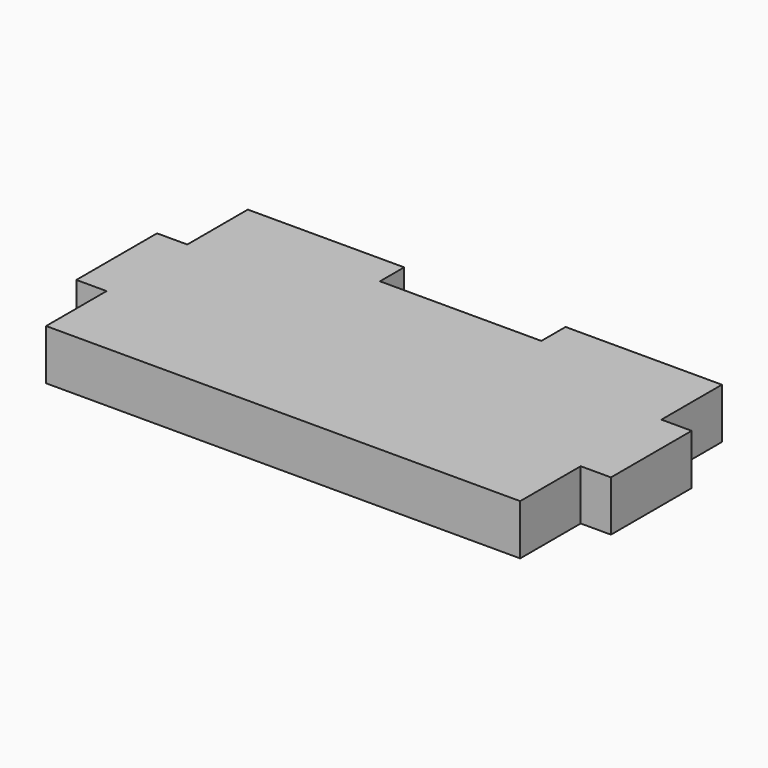
from build123d import *

# Parameters (mm, degrees)
F1_DEPTH = 5


with BuildPart() as f1:
    # F0 (on Top) → F1 (new body)
    with BuildSketch(Plane.XY):
        Polygon((23.5, 5), (23.5, 12.5), (8, 12.5), (8, 9.5), (-8, 9.5), (-8, 12.5), (-23.5, 12.5), (-23.5, 5), (-26.5, 5), (-26.5, -5), (-23.5, -5), (-23.5, -12.5), (23.5, -12.5), (23.5, -5), (26.5, -5), (26.5, 5), align=None)
    extrude(amount=F1_DEPTH)


solid = f1.part
